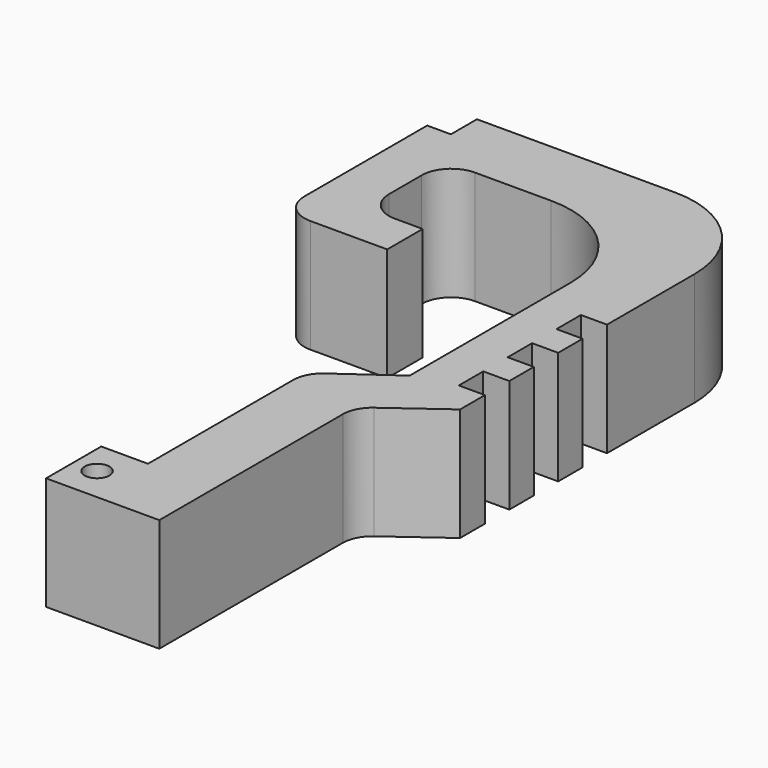
from build123d import *

# Parameters (mm, degrees)
F0_R     = 1.25
F1_DEPTH = 11.5


with BuildPart() as f1:
    # F0 (on Top) → F1 (new body)
    with BuildSketch(Plane.XY):
        with BuildLine():
            Line((-2, -34.75), (4.75, -34.75))
            Line((4.75, -34.75), (9.5, -34.75))
            Line((9.5, -34.75), (9.5, -27.75))
            Line((9.5, -27.75), (9.5, -11.459255))
            ThreePointArc((9.5, -11.459255), (9.824846, -10.10148), (10.729036, -9.03775))
            Line((10.729036, -9.03775), (16.25, -5))
            Line((16.25, -5), (16.25, -1.85))
            Line((16.25, -1.85), (13.6, -1.85))
            Line((13.6, -1.85), (13.6, 1.25))
            Line((13.6, 1.25), (16.25, 1.25))
            Line((16.25, 1.25), (16.25, 4.35))
            Line((16.25, 4.35), (13.6, 4.35))
            Line((13.6, 4.35), (13.6, 7.45))
            Line((13.6, 7.45), (16.25, 7.45))
            Line((16.25, 7.45), (16.25, 10.55))
            Line((16.25, 10.55), (13.6, 10.55))
            Line((13.6, 10.55), (13.6, 13.65))
            Line((13.6, 13.65), (16.25, 13.65))
            Line((16.25, 13.65), (16.25, 24.75))
            ThreePointArc((16.25, 24.75), (13.321068, 31.821068), (6.25, 34.75))
            Line((6.25, 34.75), (-13.841292, 34.75))
            Line((-13.841292, 34.75), (-13.841292, 31.442884))
            Line((-13.841292, 31.442884), (-16.25, 31.442884))
            Line((-16.25, 31.442884), (-16.25, 15.85))
            ThreePointArc((-16.25, 15.85), (-15.37132, 13.72868), (-13.25, 12.85))
            Line((-13.25, 12.85), (-5.433433, 12.85))
            Line((-5.433433, 12.85), (-5.433433, 17.35))
            Line((-5.433433, 17.35), (-8.25, 17.35))
            ThreePointArc((-8.25, 17.35), (-10.37132, 18.22868), (-11.25, 20.35))
            Line((-11.25, 20.35), (-11.25, 24.5))
            ThreePointArc((-11.25, 24.5), (-10.37132, 26.62132), (-8.25, 27.5))
            Line((-8.25, 27.5), (-0.5, 27.5))
            ThreePointArc((-0.5, 27.5), (6.571068, 24.571068), (9.5, 17.5))
            Line((9.5, 17.5), (9.5, -2.963436))
            Line((9.5, -2.963436), (4.008641, -6.877843))
            ThreePointArc((4.008641, -6.877843), (3.083159, -7.946693), (2.75, -9.320724))
            Line((2.75, -9.320724), (2.75, -9.936604))
            Line((2.75, -9.936604), (2.75, -27.75))
            Line((2.75, -27.75), (-2, -27.75))
            Line((-2, -27.75), (-2, -34.75))
        make_face()
        with Locations((0.375, -31.25)):
            Circle(F0_R, mode=Mode.SUBTRACT)
    extrude(amount=F1_DEPTH)


solid = f1.part
